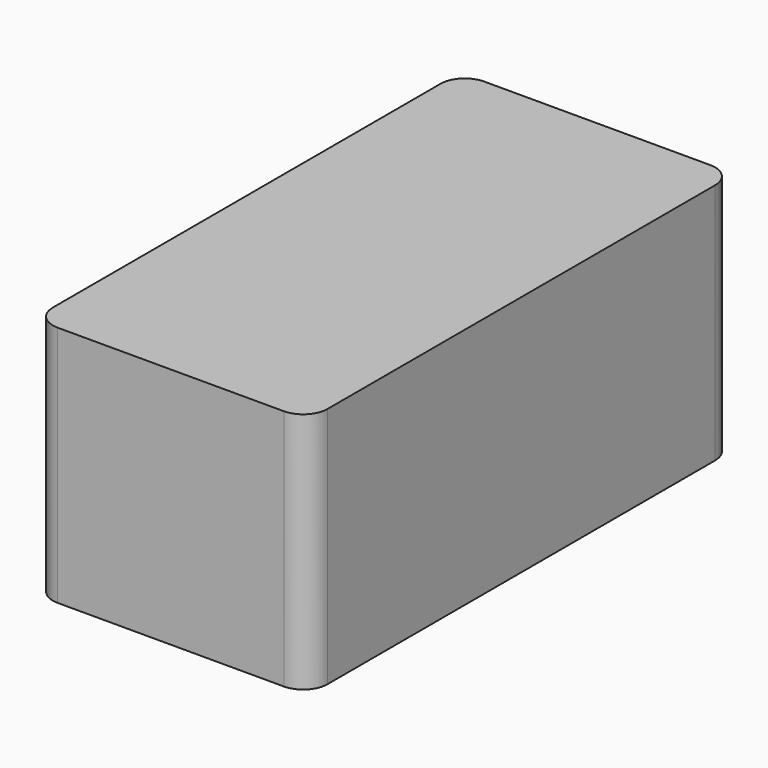
from build123d import *

# Parameters (mm, degrees)
F0_W     = 170
F0_H     = 112.08073
F1_DEPTH = 150


with BuildPart() as f1:
    # F0 (on Top) → F1 (new body)
    with BuildSketch(Plane.XY):
        with BuildLine():
            Line((-71.427317, -55.177711), (-241.427317, -55.177711))
            Line((-241.427317, -55.177711), (-241.427317, -153.787855))
            ThreePointArc((-241.427317, -153.787855), (-237.033919, -164.394457), (-226.427317, -168.787855))
            Line((-226.427317, -168.787855), (-86.427317, -168.787855))
            ThreePointArc((-86.427317, -168.787855), (-75.820715, -164.394457), (-71.427317, -153.787855))
            Line((-71.427317, -153.787855), (-71.427317, -68.148904))
            Line((-71.427317, -68.148904), (-71.427317, -55.177711))
        make_face()
        with Locations((-156.427317, 0.862654)):
            Rectangle(F0_W, F0_H)
        with BuildLine():
            Line((-86.427317, 161.212145), (-226.427317, 161.212145))
            ThreePointArc((-226.427317, 161.212145), (-237.033919, 156.818747), (-241.427317, 146.212145))
            Line((-241.427317, 146.212145), (-241.427317, 56.903019))
            Line((-241.427317, 56.903019), (-71.427317, 56.903019))
            Line((-71.427317, 56.903019), (-71.427317, 68.148904))
            Line((-71.427317, 68.148904), (-71.427317, 146.212145))
            ThreePointArc((-71.427317, 146.212145), (-75.820715, 156.818747), (-86.427317, 161.212145))
        make_face()
    extrude(amount=F1_DEPTH)


solid = f1.part
